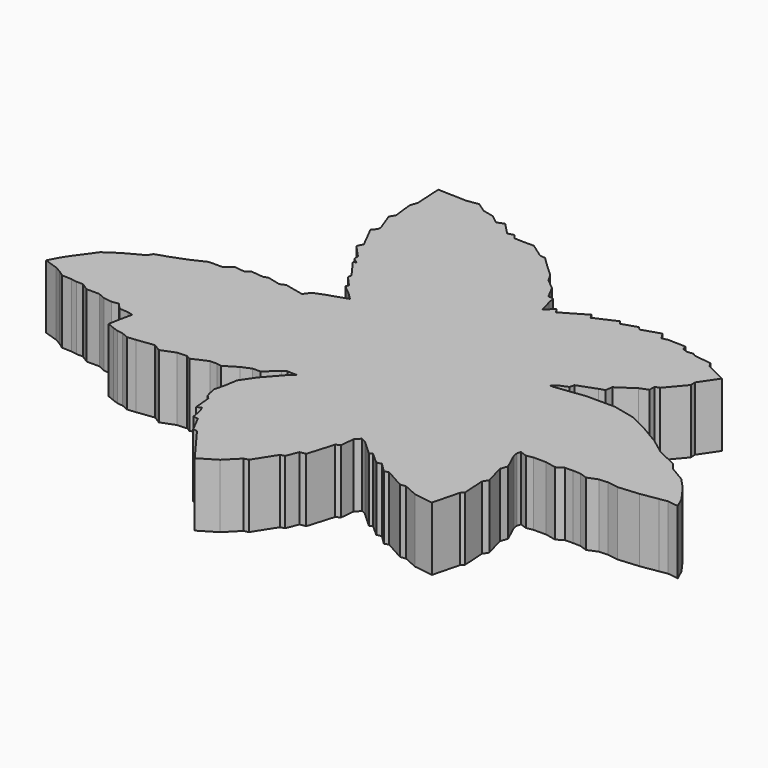
from build123d import *

# Parameters (mm, degrees)
PAD_DEPTH = 3


with BuildPart() as part:
    # Sketch → Pad (new body)
    with BuildSketch(Plane.XY):
        Polygon((-15.066747, -2.987899), (-14.417461, -3.201938), (-14.138643, -3.358095), (-13.867326, -3.550643), (-13.410691, -3.571363), (-13.132099, -3.616994), (-12.816981, -3.623429), (-12.466181, -3.85302), (-11.870388, -3.85302), (-11.520385, -4.008358), (-11.138921, -4.05555), (-10.80982, -4.007881), (-10.571555, -4.299093), (-10.133842, -4.331365), (-9.89036, -4.3898), (-9.995555, -4.876968), (-10.089424, -5.363912), (-10.107024, -5.504714), (-9.778484, -5.639651), (-9.516561, -5.730218), (-9.249311, -5.762288), (-8.928614, -5.901257), (-8.543776, -5.863842), (-7.717882, -5.75845), (-7.372913, -5.972569), (-6.724874, -5.720376), (-6.270657, -5.694814), (-6.062229, -5.804927), (-5.350893, -5.48914), (-5.024015, -5.48914), (-4.801264, -5.531317), (-4.197354, -5.162479), (-3.751908, -4.972515), (-3.377141, -4.972515), (-2.818976, -4.454219), (-2.627606, -4.342587), (-2.151123, -4.357646), (-2.380419, -4.518009), (-3.185771, -5.42702), (-3.613178, -6.058241), (-3.711104, -6.645795), (-3.835143, -7.155008), (-3.758777, -7.508761), (-3.705962, -7.68135), (-3.53967, -7.852018), (-3.468499, -8.65617), (-3.272681, -8.566711), (-3.168228, -8.769092), (-3.070875, -9.320832), (-2.842071, -9.3355), (-2.45193, -10.098182), (-2.249525, -10.130449), (-0.96042, -11.875302), (-0.153326, -11.388908), (0.461347, -10.768889), (0.669802, -10.72613), (1.317242, -9.709977), (1.518256, -9.650808), (1.740221, -9.089367), (2.020942, -9.043669), (2.393061, -7.803274), (2.588394, -7.698711), (2.654196, -7.039452), (2.869633, -6.817487), (3.091598, -6.928469), (3.796664, -7.57478), (3.933761, -7.502968), (4.462561, -7.973012), (4.684525, -7.920785), (5.115399, -8.34513), (5.324308, -8.286375), (6.23668, -8.795643), (6.503619, -8.766309), (7.148016, -9.05537), (8.048827, -9.186133), (8.36847, -7.936621), (8.499233, -7.791329), (8.434769, -6.722055), (8.586207, -6.479883), (8.322964, -5.531781), (8.439835, -5.190909), (8.074257, -4.393068), (8.042361, -4.177775), (8.090203, -3.994378), (8.410305, -4.111031), (8.720134, -4.050195), (9.318169, -4.050195), (9.829643, -4.158874), (10.132648, -3.967503), (10.517489, -3.962302), (10.88308, -3.975359), (11.224485, -4.094309), (11.686072, -3.910075), (12.103889, -3.883962), (12.600047, -3.962302), (13.579306, -3.877433), (14.388827, -3.746865), (14.754416, -3.681581), (15.276689, -3.753394), (15.04319, -3.241373), (14.520919, -2.516721), (14.037817, -1.994449), (13.280153, -1.546255), (13.043842, -1.231174), (12.107354, -0.797939), (11.380431, -0.250878), (10.439567, 0.304889), (9.595256, 0.727998), (8.536237, 0.97306), (7.198999, 0.97306), (5.779317, 0.795578), (5.601857, 0.795578), (5.831776, 0.981815), (6.254031, 1.158201), (6.302136, 1.382691), (7.179873, 1.706855), (7.446816, 1.794377), (7.490577, 2.126962), (8.300576, 2.668386), (8.685751, 2.818538), (8.685751, 3.125373), (8.89508, 3.18684), (9.634921, 4.066021), (9.626381, 4.327431), (10.206841, 5.183136), (9.255181, 5.644445), (9.110202, 5.875968), (8.321324, 5.973361), (8.154661, 6.066253), (7.828613, 6.044872), (7.634715, 6.130877), (7.563913, 6.332674), (6.748318, 6.354958), (6.468188, 6.295259), (6.270422, 6.610614), (5.404532, 6.332674), (5.270907, 6.471644), (4.569418, 6.247245), (4.441608, 6.406517), (3.419502, 5.945882), (3.291921, 6.153201), (2.15964, 5.491375), (2.000163, 5.698694), (1.618501, 5.348278), (1.459844, 5.949736), (1.381651, 6.286506), (1.14534, 6.299634), (0.824344, 6.914785), (0.348522, 7.295443), (0.126706, 7.681261), (-0.415308, 8.181635), (-0.872658, 8.623701), (-1.120738, 8.643287), (-1.793164, 9.119861), (-2.314879, 9.121219), (-2.713213, 9.138457), (-2.884254, 9.341568), (-3.167788, 9.264536), (-3.707386, 9.827964), (-4.049155, 9.7003), (-4.429878, 10.011006), (-4.979099, 10.142511), (-5.430383, 10.448871), (-5.989475, 10.365602), (-7.326053, 10.410839), (-7.252544, 9.132535), (-7.368778, 8.769302), (-7.261404, 7.837619), (-7.411118, 7.604196), (-7.092165, 6.743021), (-7.100138, 6.559623), (-7.29151, 6.384199), (-6.741315, 5.299757), (-6.87495, 5.027319), (-6.315858, 4.420645), (-6.303963, 4.194629), (-6.054155, 4.0043), (-6.185007, 3.956717), (-5.542647, 3.076445), (-5.578333, 2.909907), (-5.126302, 2.410293), (-5.185779, 2.267546), (-4.733747, 1.898783), (-4.424462, 1.589498), (-5.31663, 1.292109), (-5.840036, 1.089884), (-6.04226, 0.792495), (-6.946324, 0.994719), (-7.196131, 0.887659), (-7.814701, 1.042302), (-8.02502, 0.969153), (-8.602671, 1.030419), (-8.834605, 0.872878), (-9.333486, 0.929767), (-9.661695, 0.649695), (-10.324935, 0.649695), (-11.010686, 0.32425), (-11.728333, 0.053139), (-12.297134, -0.13161), (-12.421175, -0.347049), (-13.295985, -0.817096), (-13.922715, -1.241445), (-14.170795, -1.59398), (-14.53862, -2.09216), (-14.783051, -2.457701), align=None)
    extrude(amount=PAD_DEPTH)


solid = part.part
